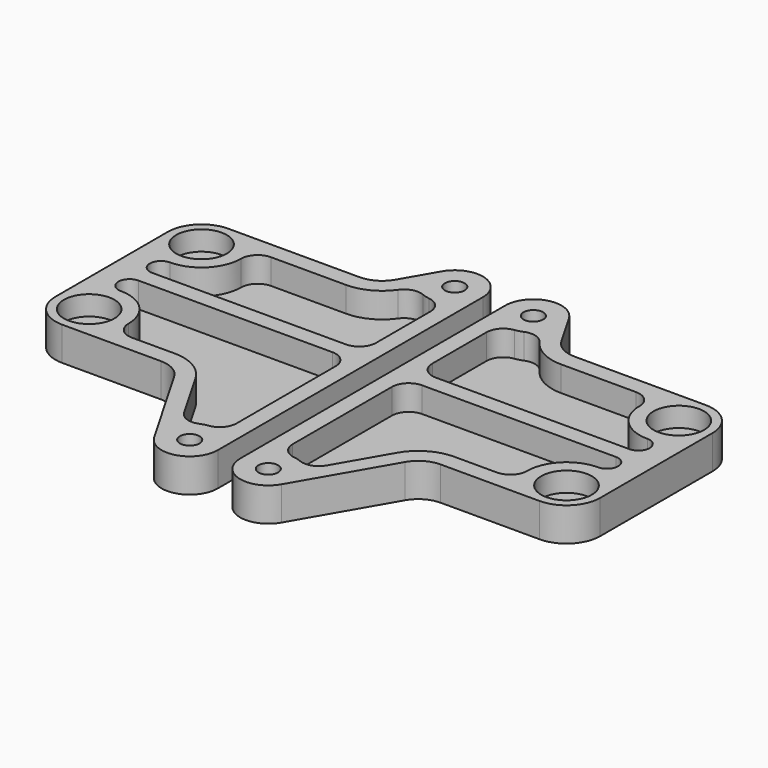
from build123d import *

# Parameters (mm, degrees)
F0_R     = 1.75
F1_DEPTH = 6
F2_R     = 4.5
F3_DEPTH = 3.5
F5_DEPTH = 3.6
F7_DEPTH = 4.5
F8_R     = 3


with BuildPart() as f1:
    # F0 (on Top) → F1 (new body)
    with BuildSketch(Plane.XY):
        with BuildLine():
            Line((-19.124355653, 18.5), (-42.5, 18.5))
            ThreePointArc((-42.5, 18.5), (-46.7426406871, 16.7426406871), (-48.5, 12.5))
            Line((-48.5, 12.5), (-48.5, -12.5))
            ThreePointArc((-48.5, -12.5), (-46.7426406871, -16.7426406871), (-42.5, -18.5))
            Line((-42.5, -18.5), (-24.8978583449, -18.5))
            ThreePointArc((-24.8978583449, -18.5), (-22.3978583449, -19.1698729811), (-20.567731326, -21))
            Line((-20.567731326, -21), (-11.3301270189, -37))
            ThreePointArc((-11.3301270189, -37), (-5.7059047745, -39.3296291314), (-2, -34.5))
            Line((-2, -34.5), (-2, 24.5))
            ThreePointArc((-2, 24.5), (-5.7059047745, 29.3296291314), (-11.3301270189, 27))
            Line((-11.3301270189, 27), (-14.7942286341, 21))
            ThreePointArc((-14.7942286341, 21), (-16.624355653, 19.1698729811), (-19.124355653, 18.5))
        make_face()
        with Locations((-42.5, -12.5)):
            Circle(F0_R, mode=Mode.SUBTRACT)
        with Locations((-7, -34.5)):
            Circle(F0_R, mode=Mode.SUBTRACT)
        with Locations((-42.5, 12.5)):
            Circle(F0_R, mode=Mode.SUBTRACT)
        with Locations((-7, 24.5)):
            Circle(F0_R, mode=Mode.SUBTRACT)
    extrude(amount=F1_DEPTH)

    # F2 (on face) → F3 (cut, through all)
    with BuildSketch(Plane.XY.offset(6)):
        with Locations((-42.5, 12.5)):
            Circle(F2_R)
        with Locations((-42.5, -12.5)):
            Circle(F2_R)
    extrude(amount=-F3_DEPTH, mode=Mode.SUBTRACT)

    # F4 (on face) → F5 (cut, through all)
    with BuildSketch(Plane(origin=(0, 0, 0), x_dir=(1, 0, 0), z_dir=(0, 0, -1))):
        Polygon((-4.25, 32.9122867597), (-4.25, 36.0877132403), (-7, 37.6754264805), (-9.75, 36.0877132403), (-9.75, 32.9122867597), (-7, 31.3245735195), align=None)
        Polygon((-4.25, -22.9122867597), (-7, -21.3245735195), (-9.75, -22.9122867597), (-9.75, -26.0877132403), (-7, -27.6754264805), (-4.25, -26.0877132403), align=None)
    extrude(amount=-F5_DEPTH, mode=Mode.SUBTRACT)

    # F6 (on face) → F7 (cut, through all)
    with BuildSketch(Plane.XY.offset(6)):
        with BuildLine():
            Line((-36.1754446797, -15.5), (-24.8978583449, -15.5))
            ThreePointArc((-24.8978583449, -15.5), (-20.8978583449, -16.5717967697), (-17.9696551146, -19.5))
            Line((-17.9696551146, -19.5), (-11.023338655, -31.5313730334))
            ThreePointArc((-11.023338655, -31.5313730334), (-8.2940952255, -29.6703708686), (-5, -29.917424305))
            Line((-5, -29.917424305), (-5, -1.5))
            Line((-5, -1.5), (-42.4999983187, -1.5))
            ThreePointArc((-42.4999983187, -1.5), (-44.4999983187, -3.4999998132), (-42.4999986923, -5.5))
            ThreePointArc((-42.4999986923, -5.5), (-36.5839198674, -8.7583431658), (-36.1754446797, -15.5))
        make_face()
        with BuildLine():
            ThreePointArc((-5, 19.917424305), (-8.2940952255, 19.6703708686), (-11.023338655, 21.5313730334))
            Line((-11.023338655, 21.5313730334), (-12.1961524227, 19.5))
            ThreePointArc((-12.1961524227, 19.5), (-15.124355653, 16.5717967697), (-19.124355653, 15.5))
            Line((-19.124355653, 15.5), (-36.1754446797, 15.5))
            ThreePointArc((-36.1754446797, 15.5), (-36.5839202147, 8.7583426167), (-42.4999999917, 5.5))
            ThreePointArc((-42.4999999917, 5.5), (-44.4999999893, 3.4999999988), (-42.4999999893, 1.5))
            Line((-42.4999999893, 1.5), (-5, 1.5))
            Line((-5, 1.5), (-5, 19.917424305))
        make_face()
    extrude(amount=-F7_DEPTH, mode=Mode.SUBTRACT)

    # F8
    f8_edges = [f1.edges().sort_by_distance(p)[0] for p in [
        (-36.175445, 15.5, 3.75),
        (-11.023339, 21.531373, 3.75),
        (-5, 19.917424, 3.75),
        (-5, 1.5, 3.75),
        (-5, -1.5, 3.75),
        (-11.023339, -31.531373, 3.75),
        (-5, -29.917424, 3.75),
        (-36.175445, -15.5, 3.75),
    ]]
    fillet(f8_edges, radius=F8_R)


with BuildPart() as f9_1:
    # F9: instance of F1
    add(f1.part.mirror(Plane.YZ))


solid = Compound([f1.part, f9_1.part])
